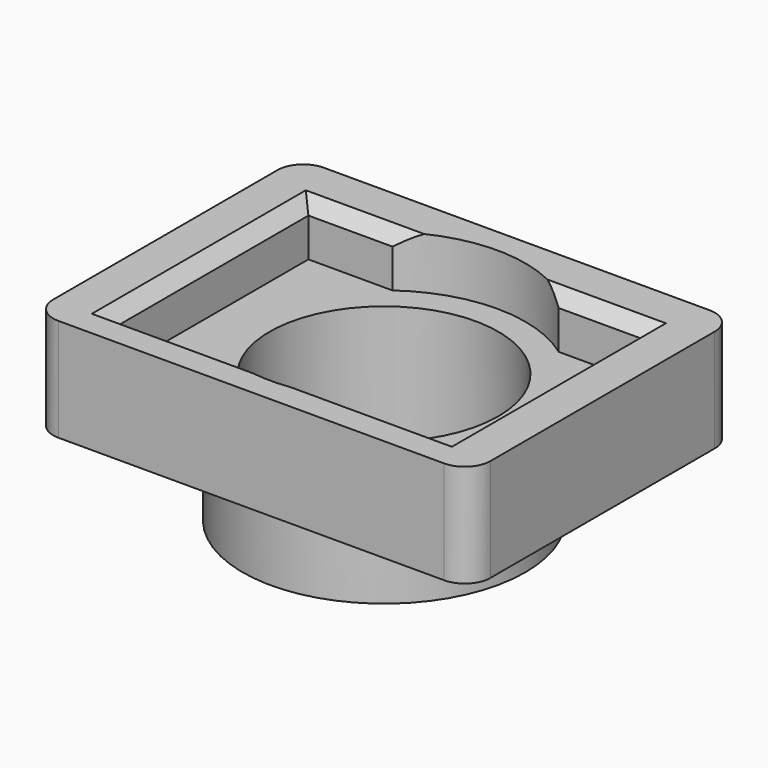
from build123d import *

# Parameters (mm, degrees)
F0_R     = 5.5
F0_R_2   = 4.45
F1_DEPTH = 5
F3_DEPTH = 2
F4_DEPTH = 2
F5_SIZE  = 1
F6_SIZE  = 0.5
F7_SIZE  = 0.3
F8_R     = 1


with BuildPart() as f1:
    # F0 (on Top) → F1 (new body)
    with BuildSketch(Plane.XY):
        Circle(F0_R)
        Circle(F0_R_2, mode=Mode.SUBTRACT)
    extrude(amount=F1_DEPTH)

    # F2 (on face) → F3 (join)
    with BuildSketch(Plane.XY.offset(5)):
        with BuildLine():
            Line((-3.2322592718, -4.45), (0, -4.45))
            ThreePointArc((0, -4.45), (-4.45, 0), (0, 4.45))
            Line((0, 4.45), (-3.2322592718, 4.45))
            ThreePointArc((-3.2322592718, 4.45), (-5.5, 0), (-3.2322592718, -4.45))
        make_face()
        with BuildLine():
            Line((0, -4.45), (3.2322592718, -4.45))
            ThreePointArc((3.2322592718, -4.45), (4.9003788626, -2.4972558945), (5.5, 0))
            ThreePointArc((5.5, 0), (4.9003788626, 2.4972558945), (3.2322592718, 4.45))
            Line((3.2322592718, 4.45), (0, 4.45))
            ThreePointArc((0, 4.45), (3.1466251763, 3.1466251763), (4.45, 0))
            ThreePointArc((4.45, 0), (3.1466251763, -3.1466251763), (0, -4.45))
        make_face()
        with BuildLine():
            Line((-6.5, -4.45), (-3.2322592718, -4.45))
            ThreePointArc((-3.2322592718, -4.45), (-5.5, 0), (-3.2322592718, 4.45))
            Line((-3.2322592718, 4.45), (-6.5, 4.45))
            Line((-6.5, 4.45), (-6.5, -4.45))
        make_face()
        with BuildLine():
            Line((3.2322592718, -4.45), (6.5, -4.45))
            Line((6.5, -4.45), (6.5, 4.45))
            Line((6.5, 4.45), (3.2322592718, 4.45))
            ThreePointArc((3.2322592718, 4.45), (4.9003788626, 2.4972558945), (5.5, 0))
            ThreePointArc((5.5, 0), (4.9003788626, -2.4972558945), (3.2322592718, -4.45))
        make_face()
    extrude(amount=-F3_DEPTH)

    # F2 (on face) → F4 (join, symmetric)
    with BuildSketch(Plane.XY.offset(5)):
        with BuildLine():
            Line((6.5, 4.45), (6.5, -4.45))
            Line((6.5, -4.45), (6.5, -6.45))
            Line((6.5, -6.45), (8.5, -6.45))
            Line((8.5, -6.45), (8.5, 6.45))
            Line((8.5, 6.45), (-8.5, 6.45))
            Line((-8.5, 6.45), (-8.5, -6.45))
            Line((-8.5, -6.45), (-6.5, -6.45))
            Line((-6.5, -6.45), (-6.5, -4.45))
            Line((-6.5, -4.45), (-6.5, 4.45))
            Line((-6.5, 4.45), (-3.2322592718, 4.45))
            ThreePointArc((-3.2322592718, 4.45), (0, 5.5), (3.2322592718, 4.45))
            Line((3.2322592718, 4.45), (6.5, 4.45))
        make_face()
        with BuildLine():
            Line((6.5, -6.45), (6.5, -4.45))
            Line((6.5, -4.45), (3.2322592718, -4.45))
            ThreePointArc((3.2322592718, -4.45), (0, -5.5), (-3.2322592718, -4.45))
            Line((-3.2322592718, -4.45), (-6.5, -4.45))
            Line((-6.5, -4.45), (-6.5, -6.45))
            Line((-6.5, -6.45), (6.5, -6.45))
        make_face()
    extrude(amount=F4_DEPTH, both=True)

    # F5
    f5_edges = [f1.edges().sort_by_distance(p)[0] for p in [
        (-4.86613, -4.45, 7),
        (4.86613, -4.45, 7),
    ]]
    chamfer(f5_edges, length=F5_SIZE)

    # F6
    f6_edges = [f1.edges().sort_by_distance(p)[0] for p in [
        (-4.86613, 4.45, 7),
        (-6.5, 0, 7),
        (6.5, 0, 7),
        (4.86613, 4.45, 7),
    ]]
    chamfer(f6_edges, length=F6_SIZE)

    # F7
    f7_edges = [f1.edges().sort_by_distance(p)[0] for p in [
        (-4.45, 0, 0),
    ]]
    chamfer(f7_edges, length=F7_SIZE)

    # F8
    f8_edges = [f1.edges().sort_by_distance(p)[0] for p in [
        (-8.5, -6.45, 5),
        (8.5, -6.45, 5),
        (8.5, 6.45, 5),
        (-8.5, 6.45, 5),
    ]]
    fillet(f8_edges, radius=F8_R)


solid = f1.part
